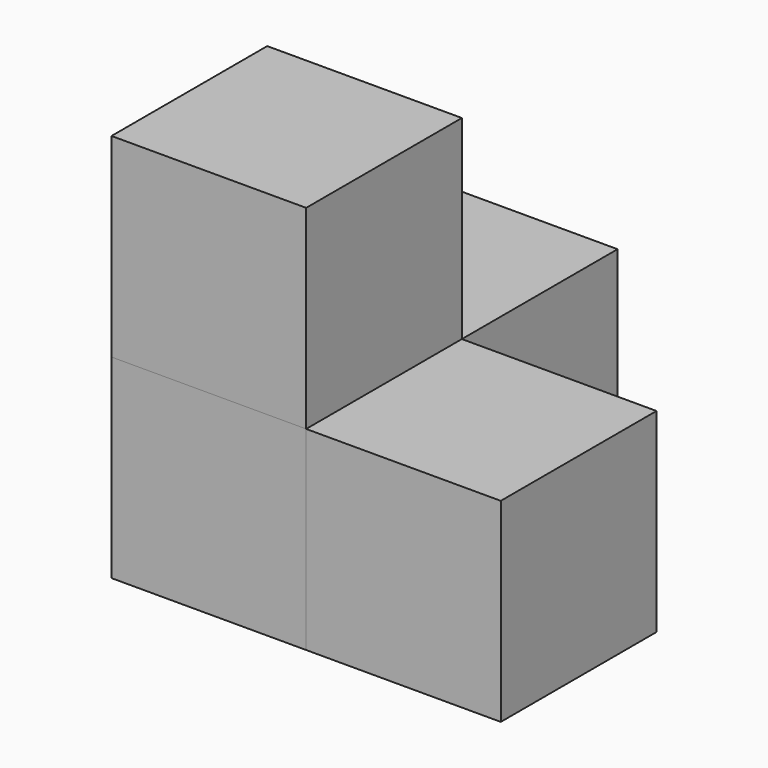
from build123d import *

# Parameters (mm, degrees)
BOX_W        = 10
BOX_H        = 10
BOX_DEPTH    = 10
BOX001_W     = 10
BOX001_H     = 10
BOX001_DEPTH = 10
BOX002_W     = 10
BOX002_H     = 10
BOX002_DEPTH = 10
BOX003_W     = 10
BOX003_H     = 10
BOX003_DEPTH = 10


with BuildPart() as nivell1_cub1:
    # Box → Box (new body)
    with BuildSketch(Plane.XY):
        with Locations((5, 5)):
            Rectangle(BOX_W, BOX_H)
    extrude(amount=BOX_DEPTH)


with BuildPart() as nivell2_cub1:
    # Box001 → Box001 (new body)
    with BuildSketch(Plane(origin=(0, 10, 0), x_dir=(1, 0, 0), z_dir=(0, 0, 1))):
        with Locations((5, 5)):
            Rectangle(BOX001_W, BOX001_H)
    extrude(amount=BOX001_DEPTH)


with BuildPart() as nivell2_cub2:
    # Box002 → Box002 (new body)
    with BuildSketch(Plane(origin=(10, 0, 0), x_dir=(1, 0, 0), z_dir=(0, 0, 1))):
        with Locations((5, 5)):
            Rectangle(BOX002_W, BOX002_H)
    extrude(amount=BOX002_DEPTH)


with BuildPart() as nivell1_cub2:
    # Box003 → Box003 (new body)
    with BuildSketch(Plane.XY.offset(10)):
        with Locations((5, 5)):
            Rectangle(BOX003_W, BOX003_H)
    extrude(amount=BOX003_DEPTH)


solid = Compound([nivell1_cub1.part, nivell2_cub1.part, nivell2_cub2.part, nivell1_cub2.part])
